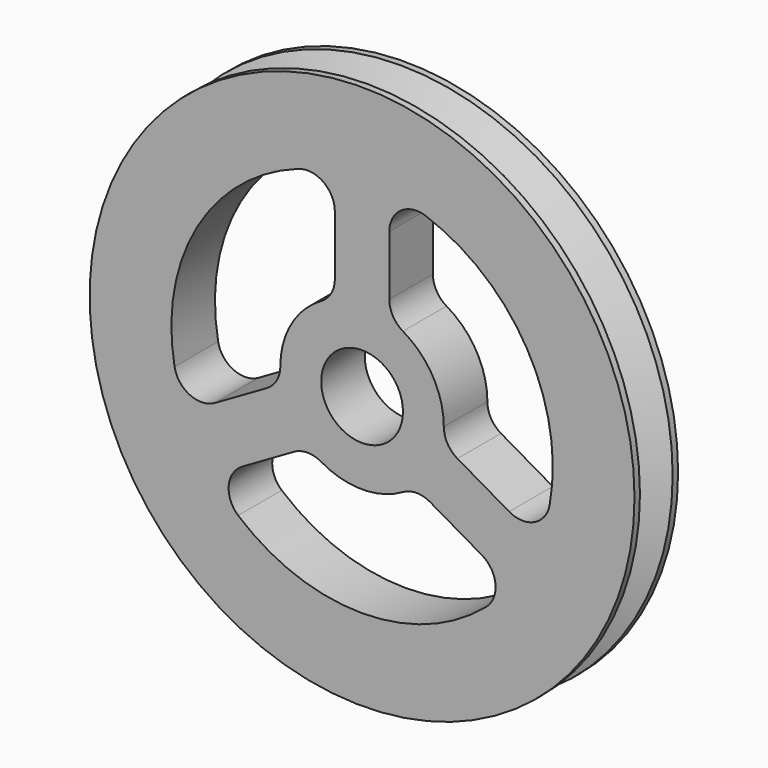
from build123d import *

# Parameters (mm, degrees)
F0_R     = 10
F0_R_2   = 1.5
F1_DEPTH = 1


with BuildPart() as f1:
    # F0 (on Front) → F1 (new body, symmetric)
    with BuildSketch(Plane.XZ):
        Circle(F0_R)
        with BuildLine():
            ThreePointArc((-4.548809, -5.320558), (-4.894761, -4.468726), (-4.398979, -3.694453))
            Line((-4.398979, -3.694453), (-2.5, -2.598076))
            ThreePointArc((-2.5, -2.598076), (-2, -2.464102), (-1.5, -2.598076))
            ThreePointArc((-1.5, -2.598076), (0, -3), (1.5, -2.598076))
            ThreePointArc((1.5, -2.598076), (2, -2.464102), (2.5, -2.598076))
            Line((2.5, -2.598076), (4.398979, -3.694453))
            ThreePointArc((4.398979, -3.694453), (4.894761, -4.468726), (4.548809, -5.320558))
            ThreePointArc((4.548809, -5.320558), (0, -7), (-4.548809, -5.320558))
        make_face(mode=Mode.SUBTRACT)
        with BuildLine():
            ThreePointArc((-6.882143, -1.279106), (-6.062178, 3.5), (-2.333333, 6.599663))
            ThreePointArc((-2.333333, 6.599663), (-1.42265, 6.473351), (-1, 5.656854))
            Line((-1, 5.656854), (-1, 3.464102))
            ThreePointArc((-1, 3.464102), (-1.133975, 2.964102), (-1.5, 2.598076))
            ThreePointArc((-1.5, 2.598076), (-2.598076, 1.5), (-3, 0))
            ThreePointArc((-3, 0), (-3.133975, -0.5), (-3.5, -0.866025))
            Line((-3.5, -0.866025), (-5.398979, -1.962402))
            ThreePointArc((-5.398979, -1.962402), (-6.317411, -2.004625), (-6.882143, -1.279106))
        make_face(mode=Mode.SUBTRACT)
        Circle(F0_R_2, mode=Mode.SUBTRACT)
        with BuildLine():
            Line((1, 3.464102), (1, 5.656854))
            ThreePointArc((1, 5.656854), (1.42265, 6.473351), (2.333333, 6.599663))
            ThreePointArc((2.333333, 6.599663), (6.062178, 3.5), (6.882143, -1.279106))
            ThreePointArc((6.882143, -1.279106), (6.317411, -2.004625), (5.398979, -1.962402))
            Line((5.398979, -1.962402), (3.5, -0.866025))
            ThreePointArc((3.5, -0.866025), (3.133975, -0.5), (3, 0))
            ThreePointArc((3, 0), (2.598076, 1.5), (1.5, 2.598076))
            ThreePointArc((1.5, 2.598076), (1.133975, 2.964102), (1, 3.464102))
        make_face(mode=Mode.SUBTRACT)
    extrude(amount=F1_DEPTH, both=True)

    # F2 (on Right) → F3 (revolve, cut)
    with BuildSketch(Plane.YZ):
        Polygon((-0.75, 10), (0, 8.5), (0, 10), align=None)
        Polygon((0, 10), (0, 8.5), (0.75, 10), align=None)
    revolve(axis=Axis((0, -0.781199, 0), (0, -1, 0)), mode=Mode.SUBTRACT)


solid = f1.part
